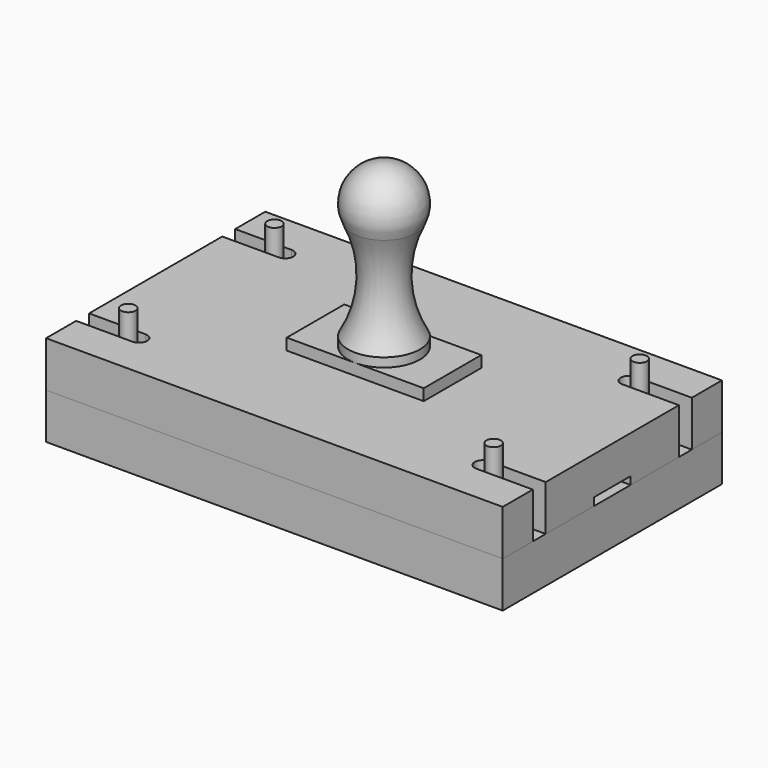
from build123d import *

# Parameters (mm, degrees)
SKETCH_W                      = 254
SKETCH_H                      = 152.4
PAD_DEPTH                     = 25.4
SKETCH001_R                   = 4
POCKET_DEPTH                  = 619.999755
SKETCH001_MIRRORED_2_R        = 4
POCKET_MIRRORED_2_DEPTH       = 619.999755
POCKET001_DEPTH               = 19.05
CYLINDER_R                    = 4
CYLINDER_DEPTH                = 63.5
CYLINDER001_R                 = 4
CYLINDER001_DEPTH             = 63.5
CYLINDER002_R                 = 4
CYLINDER002_DEPTH             = 63.5
CYLINDER003_R                 = 4
CYLINDER003_DEPTH             = 63.5
SKETCH003_W                   = 254
SKETCH003_H                   = 152.4
PAD001_DEPTH                  = 25.4
POCKET002_DEPTH               = 619.999755
POCKET003_DEPTH               = 4.318
POCKET002_MIRRORED002_2_DEPTH = 619.999755
SKETCH006_W                   = 76.2
SKETCH006_H                   = 40
PAD002_DEPTH                  = 6.35


with BuildPart() as body:
    # Sketch → Pad (new body)
    with BuildSketch(Plane.XY):
        Rectangle(SKETCH_W, SKETCH_H)
    extrude(amount=PAD_DEPTH)

    # Sketch001 (on Face6 of Pad) → Pocket (cut, through all)
    with BuildSketch(Plane.XY.offset(25.4)):
        with Locations((-101.6, 50.8)):
            Circle(SKETCH001_R)
    pocket = extrude(amount=-POCKET_DEPTH, mode=Mode.SUBTRACT)

    # Sketch001 Mirrored 2 → Pocket Mirrored 2 (cut, through all)
    with BuildSketch(Plane(origin=(0, 0, 25.4), x_dir=(-1, 0, 0), z_dir=(0, 0, -1))):
        with Locations((-101.6, 50.8)):
            Circle(SKETCH001_MIRRORED_2_R)
    pocket_mirrored_2 = extrude(amount=POCKET_MIRRORED_2_DEPTH, mode=Mode.SUBTRACT)

    # Mirrored001: Pocket, Pocket Mirrored 2 across XZ
    add(pocket.mirror(Plane.XZ), mode=Mode.SUBTRACT)
    add(pocket_mirrored_2.mirror(Plane.XZ), mode=Mode.SUBTRACT)

    # Sketch002 (on Face5 of MultiTransform) → Pocket001 (cut)
    with BuildSketch(Plane.XY.offset(25.4)):
        with BuildLine():
            Line((-127, -12.7), (-74.586888, -12.7))
            ThreePointArc((-74.586888, -12.7), (25.4, 0), (-74.586888, 12.7))
            Line((-74.586888, 12.7), (-127, 12.7))
            Line((-127, 12.7), (-127, -12.7))
        make_face()
    extrude(amount=-POCKET001_DEPTH, mode=Mode.SUBTRACT)


with BuildPart() as cylinder:
    # Cylinder → Cylinder (new body)
    with BuildSketch(Plane(origin=(-101.6, 50.8, 0), x_dir=(1, 0, 0), z_dir=(0, 0, 1))):
        Circle(CYLINDER_R)
    extrude(amount=CYLINDER_DEPTH)


with BuildPart() as cylinder001:
    # Cylinder001 → Cylinder001 (new body)
    with BuildSketch(Plane(origin=(101.6, 50.8, 0), x_dir=(1, 0, 0), z_dir=(0, 0, 1))):
        Circle(CYLINDER001_R)
    extrude(amount=CYLINDER001_DEPTH)


with BuildPart() as cylinder002:
    # Cylinder002 → Cylinder002 (new body)
    with BuildSketch(Plane(origin=(-101.6, -50.8, 0), x_dir=(1, 0, 0), z_dir=(0, 0, 1))):
        Circle(CYLINDER002_R)
    extrude(amount=CYLINDER002_DEPTH)


with BuildPart() as cylinder003:
    # Cylinder003 → Cylinder003 (new body)
    with BuildSketch(Plane(origin=(101.6, -50.8, 0), x_dir=(1, 0, 0), z_dir=(0, 0, 1))):
        Circle(CYLINDER003_R)
    extrude(amount=CYLINDER003_DEPTH)


with BuildPart() as body001:
    # Sketch003 (on Face1 of ShapeBinder) → Pad001 (new body)
    with BuildSketch(Plane.XY.offset(25.4)):
        Rectangle(SKETCH003_W, SKETCH003_H)
    extrude(amount=PAD001_DEPTH)

    # Sketch004 (on Face1 of ShapeBinder) → Pocket002 (cut, through all)
    with BuildSketch(Plane.XY.offset(25.4)):
        with BuildLine():
            ThreePointArc((-95.6, 46.3), (-91.1, 50.8), (-95.6, 55.3))
            Line((-95.6, 55.3), (-127, 55.3))
            Line((-127, 55.3), (-127, 46.3))
            Line((-127, 46.3), (-95.6, 46.3))
        make_face()
    pocket002 = extrude(amount=POCKET002_DEPTH, mode=Mode.SUBTRACT)

    # Sketch005 (on Face1 of ShapeBinder) → Pocket003 (cut)
    with BuildSketch(Plane.XY.offset(25.4)):
        with BuildLine():
            Line((127, -12.7), (74.586888, -12.7))
            ThreePointArc((74.586888, 12.7), (-25.4, 0), (74.586888, -12.7))
            Line((74.586888, 12.7), (127, 12.7))
            Line((127, 12.7), (127, -12.7))
        make_face()
    extrude(amount=POCKET003_DEPTH, mode=Mode.SUBTRACT)

    # Sketch004 Mirrored002 2 → Pocket002 Mirrored002 2 (cut, through all)
    with BuildSketch(Plane(origin=(0, 0, 25.4), x_dir=(-1, 0, 0), z_dir=(0, 0, -1))):
        with BuildLine():
            ThreePointArc((-95.6, 46.3), (-91.1, 50.8), (-95.6, 55.3))
            Line((-95.6, 55.3), (-127, 55.3))
            Line((-127, 55.3), (-127, 46.3))
            Line((-127, 46.3), (-95.6, 46.3))
        make_face()
    pocket002_mirrored002_2 = extrude(amount=-POCKET002_MIRRORED002_2_DEPTH, mode=Mode.SUBTRACT)

    # Mirrored003: Pocket002, Pocket002 Mirrored002 2 across XZ
    add(pocket002.mirror(Plane.XZ), mode=Mode.SUBTRACT)
    add(pocket002_mirrored002_2.mirror(Plane.XZ), mode=Mode.SUBTRACT)


with BuildPart() as body002:
    # Sketch006 (on Face1 of ShapeBinder001) → Pad002 (new body)
    with BuildSketch(Plane.XY.offset(50.8)):
        Rectangle(SKETCH006_W, SKETCH006_H)
    extrude(amount=PAD002_DEPTH)

    # Sketch007 → Revolution (revolve)
    with BuildSketch(Plane.XZ):
        with BuildLine():
            Line((0, 57.15), (20, 57.15))
            Line((20, 57.15), (20, 62.15))
            ThreePointArc((17.987117, 118.405651), (11.986838, 90.027118), (20, 62.15))
            ThreePointArc((17.987117, 118.405651), (16.954158, 137.759265), (0, 147.15))
            Line((0, 147.15), (0, 57.15))
        make_face()
    revolve(axis=Axis((0, 0, 0), (0, 0, 1)))


solid = Compound([body.part, cylinder.part, cylinder001.part, cylinder002.part, cylinder003.part, body001.part, body002.part])
